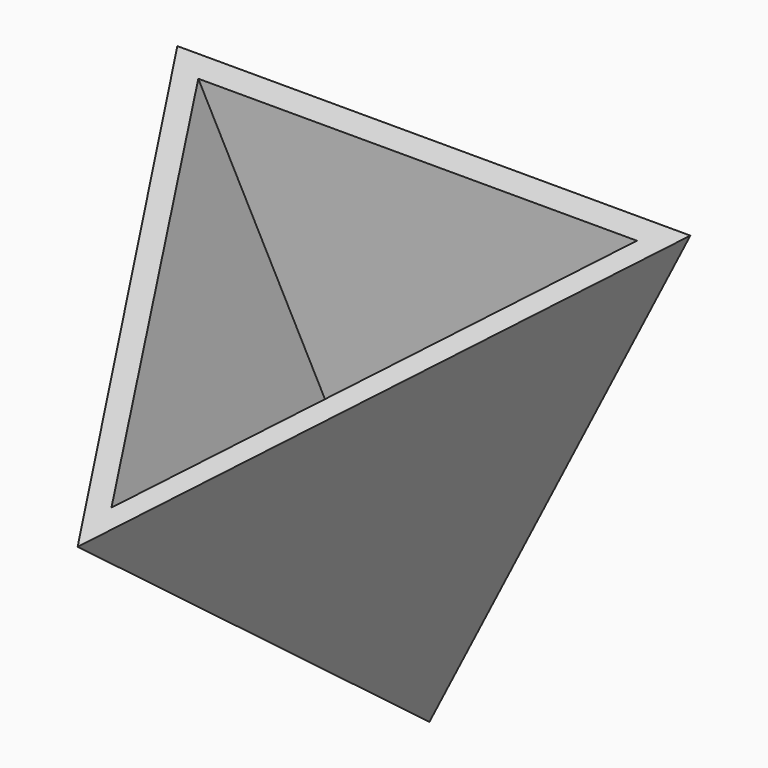
from build123d import *


with BuildPart() as f3:
    # F0 (on Front) → F3 section 0
    with BuildSketch(Plane.XZ, mode=Mode.PRIVATE) as f3_s0:
        Polygon((-64.5334348083, 23.7774383277), (-20.8526563972, -65.1225616723), (24.3665651917, 23.7774383277), align=None)
    loft([f3_s0.sketch, Vertex(-20.8526563972, -76.2, -7.4289554362)])

    # F4 (on face) → F7 section 0
    with BuildSketch(Plane(origin=(0, -8.3390399366, 20.3623285656), x_dir=(1, 0, 0), z_dir=(0, -0.3789830628, 0.9254036082)), mode=Mode.PRIVATE) as f7_s0:
        Polygon((17.9275607925, 5.2012464038), (-58.083590823, 5.2012464038), (-20.8526563972, -65.4160258211), align=None)
    loft([Vertex(-20.8526563972, -3.81, -47.8602349758), f7_s0.sketch], mode=Mode.SUBTRACT)


solid = f3.part
